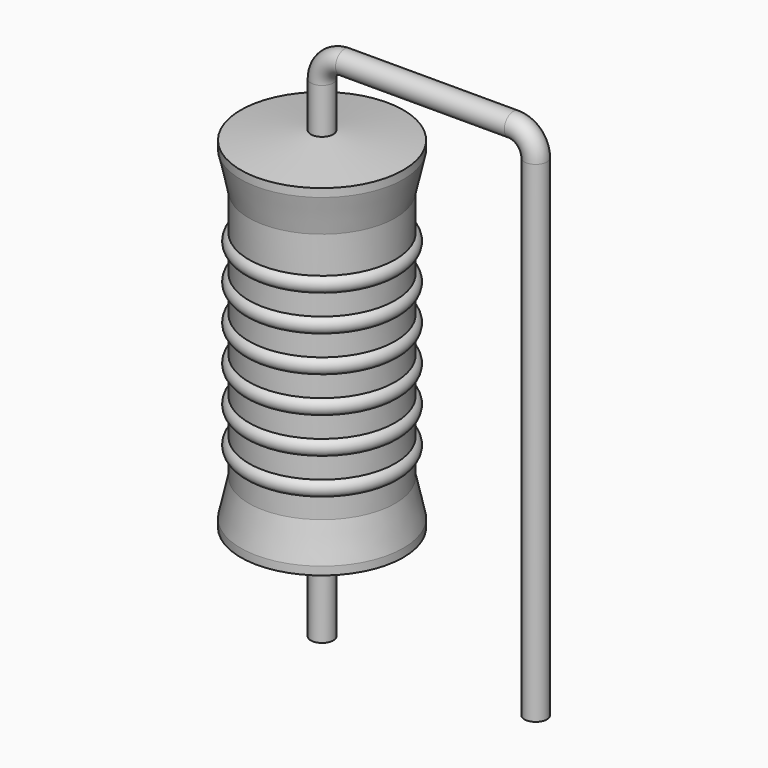
from build123d import *

# Parameters (mm, degrees)
SKETCH_R = 0.4


with BuildPart() as revolution:
    # Sketch002 → Revolution (revolve)
    with BuildSketch(Plane.XZ):
        Polygon((0, 0.1), (0, 12.9), (0.3, 12.9), (2.9, 12.58), (2.9, 12.2875), (2.61, 10.98), (2.61, 2.02), (2.9, 0.7125), (2.9, 0.42), (0.3, 0.1), align=None)
    revolve(axis=Axis((0, 0, 0), (0, 0, 1)))


with BuildPart() as revolution001:
    # Sketch003 → Revolution001 (revolve)
    with BuildSketch(Plane.XZ):
        with BuildLine():
            Line((2.32, 10.4), (2.32, 2.02))
            Line((2.32, 2.02), (2.494, 2.02))
            Line((2.494, 2.02), (2.494, 2.72))
            ThreePointArc((2.494, 2.72), (2.784, 3.01), (2.494, 3.3))
            Line((2.494, 3.3), (2.494, 4))
            ThreePointArc((2.494, 4), (2.784, 4.29), (2.494, 4.58))
            Line((2.494, 4.58), (2.494, 5.28))
            ThreePointArc((2.494, 5.28), (2.784, 5.57), (2.494, 5.86))
            Line((2.494, 5.86), (2.494, 6.56))
            ThreePointArc((2.494, 6.56), (2.784, 6.85), (2.494, 7.14))
            Line((2.494, 7.14), (2.494, 7.84))
            ThreePointArc((2.494, 7.84), (2.784, 8.13), (2.494, 8.42))
            Line((2.494, 8.42), (2.494, 9.12))
            ThreePointArc((2.494, 9.12), (2.784, 9.41), (2.494, 9.7))
            Line((2.494, 10.4), (2.494, 9.7))
            Line((2.32, 10.4), (2.494, 10.4))
        make_face()
    revolve(axis=Axis((0, 0, 0), (0, 0, 1)))


with BuildPart() as obj1:
    # Sweep: sweep along a path in Sketch001
    with BuildLine(Plane.XZ) as sweep_path:
        Line((0, -3), (0, 14.5))
        ThreePointArc((0, 14.5), (0.234312, 15.065683), (0.799993, 15.3))
        Line((0.799993, 15.3), (6.82, 15.3))
        ThreePointArc((6.82, 15.3), (7.385685, 15.065685), (7.62, 14.5))
        Line((7.62, 14.5), (7.62, -3))
    # Sketch → Sweep (sweep)
    with BuildSketch(Plane.XY.offset(-2)):
        Circle(SKETCH_R)
    sweep(path=sweep_path.line)

    # obj1: union Revolution, Revolution001
    add(revolution.part)
    add(revolution001.part)


solid = obj1.part
